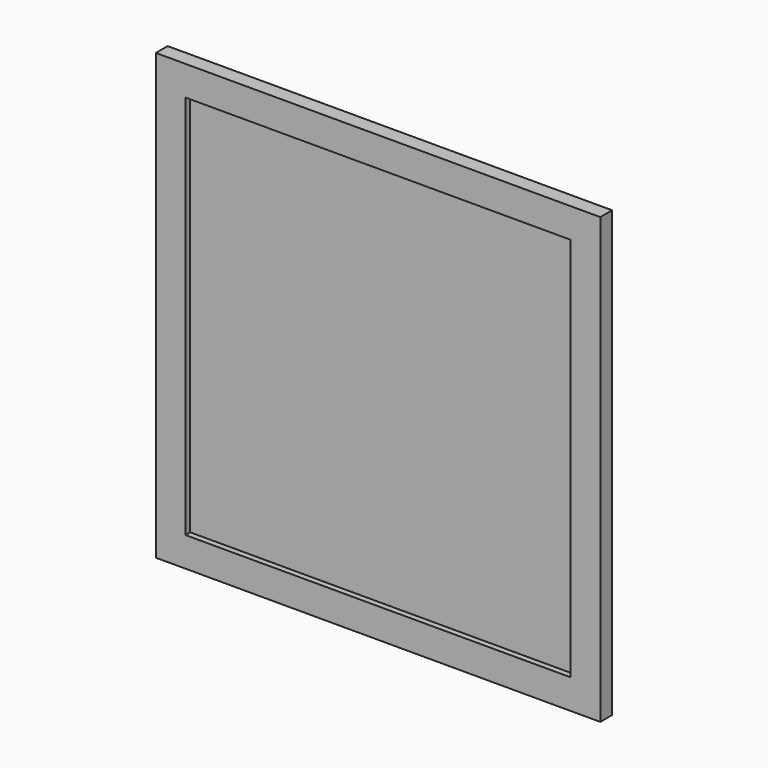
from build123d import *

# Parameters (mm, degrees)
F0_W     = 260
F0_H     = 260
F1_DEPTH = 1
F0_H_2   = 20
F0_W_2   = 20
F2_DEPTH = 5
F3_DEPTH = 5


with BuildPart() as f1:
    # F0 (on Front) → F1 (new body)
    with BuildSketch(Plane.XZ):
        with Locations((-71.63621746, -55.5927120769)):
            Rectangle(F0_W, F0_H)
    extrude(amount=F1_DEPTH)

    # F0 (on Front) → F2 (join)
    with BuildSketch(Plane.XZ):
        with Locations((-71.63621746, 84.4072879231)):
            Rectangle(F0_W, F0_H_2)
        with Locations((68.36378254, 84.4072879231)):
            Rectangle(F0_W_2, F0_H_2)
        with Locations((68.36378254, -55.5927120769)):
            Rectangle(F0_W_2, F0_H)
        with Locations((68.36378254, -195.5927120769)):
            Rectangle(F0_W_2, F0_H_2)
        with Locations((-71.63621746, -195.5927120769)):
            Rectangle(F0_W, F0_H_2)
        with Locations((-211.63621746, -195.5927120769)):
            Rectangle(F0_W_2, F0_H_2)
        with Locations((-211.63621746, -55.5927120769)):
            Rectangle(F0_W_2, F0_H)
        with Locations((-211.63621746, 84.4072879231)):
            Rectangle(F0_W_2, F0_H_2)
    extrude(amount=F2_DEPTH)

    # F0 (on Front) → F3 (join)
    with BuildSketch(Plane.XZ):
        with Locations((-71.63621746, 84.4072879231)):
            Rectangle(F0_W, F0_H_2)
        with Locations((68.36378254, 84.4072879231)):
            Rectangle(F0_W_2, F0_H_2)
        with Locations((68.36378254, -55.5927120769)):
            Rectangle(F0_W_2, F0_H)
        with Locations((68.36378254, -195.5927120769)):
            Rectangle(F0_W_2, F0_H_2)
        with Locations((-71.63621746, -195.5927120769)):
            Rectangle(F0_W, F0_H_2)
        with Locations((-211.63621746, -195.5927120769)):
            Rectangle(F0_W_2, F0_H_2)
        with Locations((-211.63621746, -55.5927120769)):
            Rectangle(F0_W_2, F0_H)
        with Locations((-211.63621746, 84.4072879231)):
            Rectangle(F0_W_2, F0_H_2)
    extrude(amount=-F3_DEPTH)


solid = f1.part
